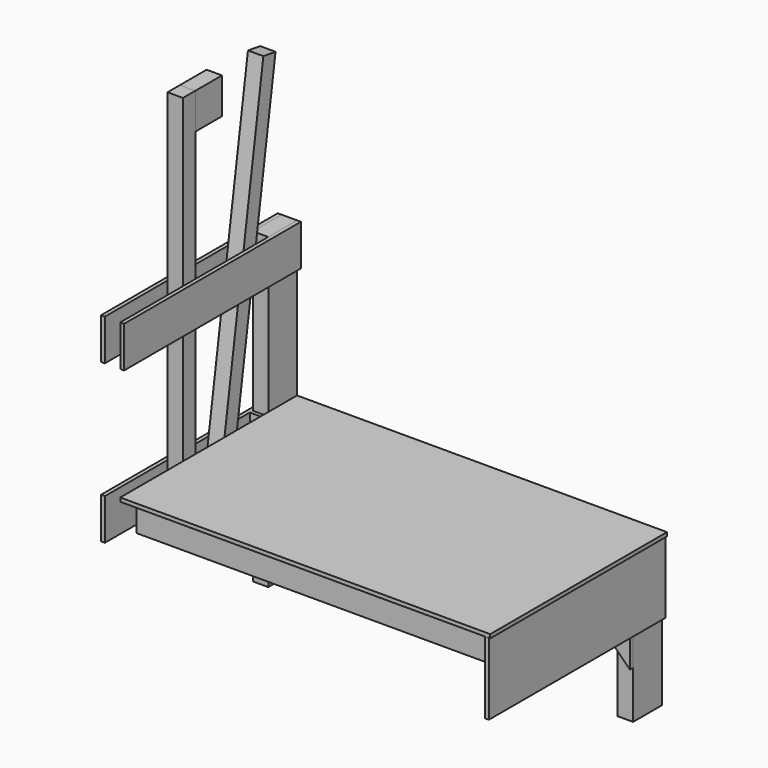
from build123d import *

# Parameters (mm, degrees)
SKETCH_W                                  = 36
SKETCH_H                                  = 21.5
EXTRUDE002_DEPTH                          = 0.37
SKETCH001_W                               = 1.5
SKETCH001_H                               = 3.5
EXTRUDE_DEPTH                             = 34
SKETCH002_W                               = 1.5
SKETCH002_H                               = 3.5
EXTRUDE003_DEPTH                          = 30
SKETCH003_W                               = 1.5
SKETCH003_H                               = 3.5
EXTRUDE004_DEPTH                          = 14.625
EXTRUDE005_DEPTH                          = 0.375
EXTRUDE005_ONTO_SKETCH004_ROLL_ANGLE      = 90
EXTRUDE005_ONTO_SKETCH004_PLACEMENT_ANGLE = 180
EXTRUDE006_DEPTH                          = 34
EXTRUDE007_DEPTH                          = 0.375
EXTRUDE007_ONTO_SKETCH006_ROLL_ANGLE      = 90
EXTRUDE007_ONTO_SKETCH006_PLACEMENT_ANGLE = 180
SKETCH007_W                               = 13.75
SKETCH007_H                               = 3.5
EXTRUDE008_DEPTH                          = 1.5
SKETCH008_W                               = 21.5
SKETCH008_H                               = 7
EXTRUDE009_DEPTH                          = 0.375
SKETCH009_W                               = 1.5
SKETCH009_H                               = 35
EXTRUDE010_DEPTH                          = 1.5
SKETCH010_AS_DRAWN_W                      = 1.5
SKETCH010_AS_DRAWN_H                      = 3.5
EXTRUDE011_DEPTH                          = 3.25
EXTRUDE011_ONTO_SKETCH010_ROLL_ANGLE      = 90
EXTRUDE011_ONTO_SKETCH010_PLACEMENT_ANGLE = 180
SKETCH011_W                               = 21.5
SKETCH011_H                               = 4
EXTRUDE012_DEPTH                          = 0.375
SKETCH012_W                               = 21.5
SKETCH012_H                               = 4
EXTRUDE013_DEPTH                          = 0.375
SKETCH013_W                               = 21.5
SKETCH013_H                               = 4
EXTRUDE014_DEPTH                          = 0.375
EXTRUDE015_DEPTH                          = 1.5


with BuildPart() as extrude002:
    # Sketch → Extrude002 (new body)
    with BuildSketch(Plane.XY.offset(15)):
        with Locations((18, 0)):
            Rectangle(SKETCH_W, SKETCH_H)
    extrude(amount=-EXTRUDE002_DEPTH)


with BuildPart() as extrude_body:
    # Sketch001 → Extrude (new body)
    with BuildSketch(Plane.YZ):
        with Locations((-8, 12.875)):
            Rectangle(SKETCH001_W, SKETCH001_H)
    extrude(amount=EXTRUDE_DEPTH)


with BuildPart() as part_mirroring:
    # Part__Mirroring: instance of Extrude body
    add(extrude_body.part.mirror(Plane(origin=(0, 0, 0), x_dir=(1, 0, 0), z_dir=(0, 1, 0))))


with BuildPart() as extrude003:
    # Sketch002 → Extrude003 (new body)
    with BuildSketch(Plane.XY):
        with Locations((-0.75, -9)):
            Rectangle(SKETCH002_W, SKETCH002_H)
    extrude(amount=EXTRUDE003_DEPTH)


with BuildPart() as part_mirroring001:
    # Part__Mirroring001: instance of Extrude003
    add(extrude003.part.mirror(Plane(origin=(0, 0, 0), x_dir=(1, 0, 0), z_dir=(0, 1, 0))))


with BuildPart() as extrude004:
    # Sketch003 → Extrude004 (new body)
    with BuildSketch(Plane.XY):
        with Locations((34.75, -9)):
            Rectangle(SKETCH003_W, SKETCH003_H)
    extrude(amount=EXTRUDE004_DEPTH)


with BuildPart() as part_mirroring002:
    # Part__Mirroring002: instance of Extrude004
    add(extrude004.part.mirror(Plane(origin=(0, 0, 0), x_dir=(1, 0, 0), z_dir=(0, 1, 0))))


with BuildPart() as extrude005:
    # Sketch004 as drawn → Extrude005 (new)
    with BuildSketch(Plane.XY):
        Polygon((-10.5, 14.625), (1.5, 2.625), (1.5, 14.625), align=None)
    extrude(amount=EXTRUDE005_DEPTH)


with BuildPart() as extrude005_1:
    # Extrude005 onto Sketch004 roll: moved
    add(extrude005.part.rotate(Axis((0, 0, 0), (1, 0, 0)), EXTRUDE005_ONTO_SKETCH004_ROLL_ANGLE))


with BuildPart() as extrude005_2:
    # Extrude005 onto Sketch004 placement: moved
    add(extrude005_1.part.moved(Location((0, -7.25, 0))).rotate(Axis((0, -7.25, 0), (0, 0, 1)), EXTRUDE005_ONTO_SKETCH004_PLACEMENT_ANGLE))


with BuildPart() as part_mirroring003:
    # Part__Mirroring003: instance of Extrude005
    add(extrude005_2.part.mirror(Plane(origin=(0, 0, 0), x_dir=(1, 0, 0), z_dir=(0, 1, 0))))


with BuildPart() as extrude006:
    # Sketch001 → Extrude006 (new body)
    with BuildSketch(Plane.YZ):
        with Locations((-8, 12.875)):
            Rectangle(SKETCH001_W, SKETCH001_H)
    extrude(amount=EXTRUDE006_DEPTH)


with BuildPart() as extrude007:
    # Sketch006 as drawn → Extrude007 (new)
    with BuildSketch(Plane.XY):
        Polygon((-25.5, 14.625), (-35.5, 14.625), (-35.5, 4.625), align=None)
    extrude(amount=EXTRUDE007_DEPTH)


with BuildPart() as extrude007_1:
    # Extrude007 onto Sketch006 roll: moved
    add(extrude007.part.rotate(Axis((0, 0, 0), (1, 0, 0)), EXTRUDE007_ONTO_SKETCH006_ROLL_ANGLE))


with BuildPart() as extrude007_2:
    # Extrude007 onto Sketch006 placement: moved
    add(extrude007_1.part.moved(Location((0, -7.25, 0))).rotate(Axis((0, -7.25, 0), (0, 0, 1)), EXTRUDE007_ONTO_SKETCH006_PLACEMENT_ANGLE))


with BuildPart() as part_mirroring004:
    # Part__Mirroring004: instance of Extrude007
    add(extrude007_2.part.mirror(Plane(origin=(0, 0, 0), x_dir=(1, 0, 0), z_dir=(0, 1, 0))))


with BuildPart() as extrude008:
    # Sketch007 → Extrude008 (new body)
    with BuildSketch(Plane.YZ):
        with Locations((0, 12.875)):
            Rectangle(SKETCH007_W, SKETCH007_H)
    extrude(amount=EXTRUDE008_DEPTH)


with BuildPart() as extrude009:
    # Sketch008 → Extrude009 (new body)
    with BuildSketch(Plane.YZ.offset(35.5)):
        with Locations((0, 11.125)):
            Rectangle(SKETCH008_W, SKETCH008_H)
    extrude(amount=EXTRUDE009_DEPTH)


with BuildPart() as extrude010:
    # Sketch009 → Extrude010 (new body)
    with BuildSketch(Plane.YZ):
        with Locations((-2.375, 28.625)):
            Rectangle(SKETCH009_W, SKETCH009_H)
    extrude(amount=-EXTRUDE010_DEPTH)


with BuildPart() as extrude011:
    # Sketch010 as drawn → Extrude011 (new)
    with BuildSketch(Plane.XY):
        with Locations((0.75, 44.375)):
            Rectangle(SKETCH010_AS_DRAWN_W, SKETCH010_AS_DRAWN_H)
    extrude(amount=EXTRUDE011_DEPTH)


with BuildPart() as extrude011_1:
    # Extrude011 onto Sketch010 roll: moved
    add(extrude011.part.rotate(Axis((0, 0, 0), (1, 0, 0)), EXTRUDE011_ONTO_SKETCH010_ROLL_ANGLE))


with BuildPart() as extrude011_2:
    # Extrude011 onto Sketch010 placement: moved
    add(extrude011_1.part.moved(Location((0, -1.625, 0))).rotate(Axis((0, -1.625, 0), (0, 0, 1)), EXTRUDE011_ONTO_SKETCH010_PLACEMENT_ANGLE))


with BuildPart() as extrude012:
    # Sketch011 → Extrude012 (new body)
    with BuildSketch(Plane.YZ.offset(-1.5)):
        with Locations((0, 12.625)):
            Rectangle(SKETCH011_W, SKETCH011_H)
    extrude(amount=-EXTRUDE012_DEPTH)


with BuildPart() as extrude013:
    # Sketch012 → Extrude013 (new body)
    with BuildSketch(Plane.YZ.offset(-1.5)):
        with Locations((0, 28)):
            Rectangle(SKETCH012_W, SKETCH012_H)
    extrude(amount=-EXTRUDE013_DEPTH)


with BuildPart() as extrude014:
    # Sketch013 → Extrude014 (new body)
    with BuildSketch(Plane.YZ):
        with Locations((0, 28)):
            Rectangle(SKETCH013_W, SKETCH013_H)
    extrude(amount=EXTRUDE014_DEPTH)


with BuildPart() as extrude015:
    # Sketch014 → Extrude015 (new body)
    with BuildSketch(Plane(origin=(0, 0, 0), x_dir=(0, -1, 0), z_dir=(-1, 0, 0))):
        Polygon((-2.81207, 10.909194), (-1.329523, 11.137347), (-6.653087, 45.730116), (-8.135634, 45.501963), align=None)
    extrude(amount=EXTRUDE015_DEPTH)


solid = Compound([extrude002.part, part_mirroring.part, part_mirroring001.part, part_mirroring002.part, part_mirroring003.part, extrude006.part, part_mirroring004.part, extrude008.part, extrude009.part, extrude010.part, extrude011_2.part, extrude012.part, extrude013.part, extrude014.part, extrude015.part])
